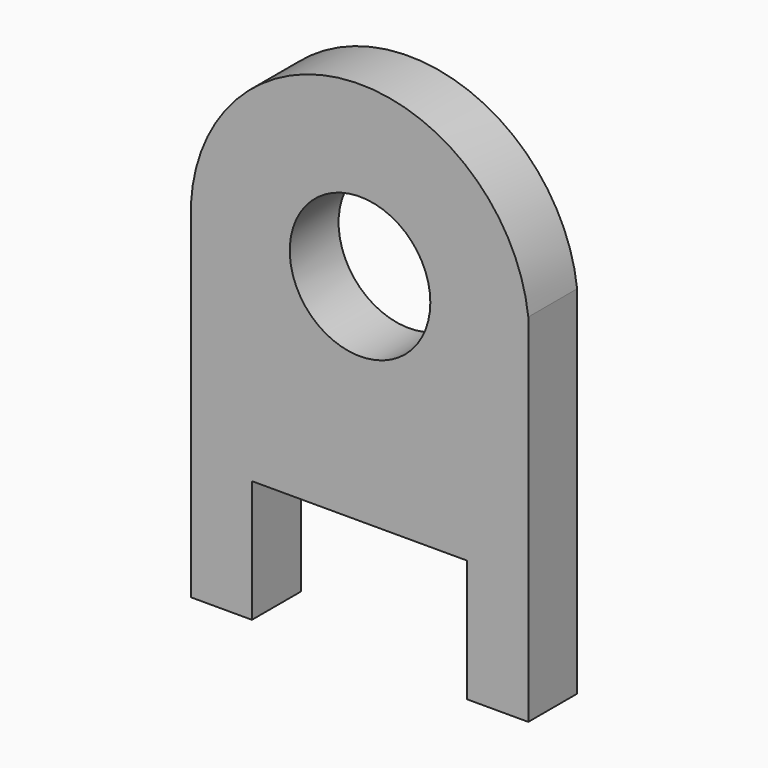
from build123d import *

# Parameters (mm, degrees)
F0_W     = 9.652
F0_H     = 19.304
F0_R     = 11.1125
F1_DEPTH = 9.652


with BuildPart() as f1:
    # F0 (on Front) → F1 (new body)
    with BuildSketch(Plane.XZ):
        with Locations((-82.55, -9.652)):
            Rectangle(F0_W, F0_H)
        with Locations((-38.862, -9.652)):
            Rectangle(F0_W, F0_H)
        with BuildLine():
            Line((-43.688, 0), (-34.036, 0))
            Line((-34.036, 0), (-34.036, 34.036))
            Line((-34.036, 34.036), (-34.036, 37.05788))
            ThreePointArc((-34.036, 37.05788), (-62.746785, 60.721529), (-87.376, 32.834629))
            Line((-87.376, 32.834629), (-87.376, 0))
            Line((-87.376, 0), (-77.724, 0))
            Line((-77.724, 0), (-43.688, 0))
        make_face()
        with Locations((-60.63393, 34.036)):
            Circle(F0_R, mode=Mode.SUBTRACT)
    extrude(amount=-F1_DEPTH)


solid = f1.part
